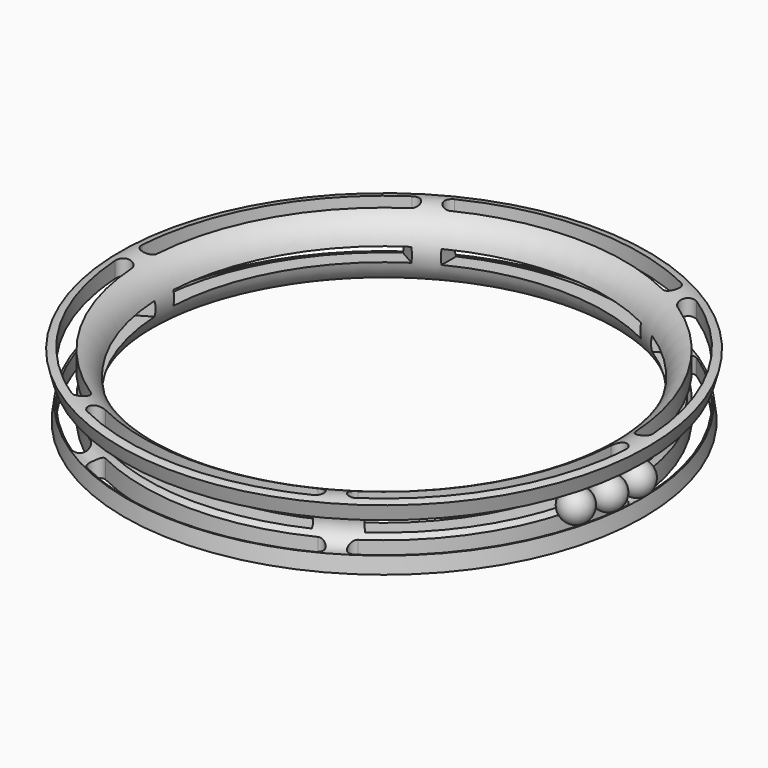
from build123d import *

# Parameters (mm, degrees)
F4_DEPTH      = 13.3012778422
F4_DEPTH_BACK = 13.3012778422
F5_COUNT      = 6
F8_W          = 80.1995322108
F8_H          = 5.6617874652
F9_DEPTH      = 106.1225348679
F10_COUNT     = 6
F11_COUNT     = 3
F11_ANGLE     = 15


with BuildPart() as f1:
    # F0 (on Front) → F1 (revolve)
    with BuildSketch(Plane.XZ):
        with BuildLine():
            ThreePointArc((103.5910444848, -6.6589866011), (94.6649851818, 0.4603587354), (104.4537665909, 6.3373793431))
            Line((104.4537665909, 6.3373793431), (106.1215347679, 12.5081218159))
            ThreePointArc((106.1215347679, 12.5081218159), (88.329877015, 0.8951111562), (104.4007951263, -13.0020357898))
            Line((104.4007951263, -13.0020357898), (103.5910444848, -6.6589866011))
        make_face()
    revolve(axis=Axis((0, 0, 4.3256185018), (0, 0, -1)))

    # F3 (on Top) → F4 (cut, two sides)
    with BuildSketch(Plane.XY) as f4_sk:
        with BuildLine():
            ThreePointArc((42.6894900493, 86.6577107587), (46.9407193485, 88.1028057197), (45.4956243874, 92.3540350188))
            ThreePointArc((45.4956243874, 92.3540350188), (0, 102.9520258307), (-45.4956243874, 92.3540350188))
            ThreePointArc((-45.4956243874, 92.3540350188), (-46.9407193485, 88.1028057197), (-42.6894900493, 86.6577107587))
            ThreePointArc((-42.6894900493, 86.6577107587), (0, 96.6020258307), (42.6894900493, 86.6577107587))
        make_face()
    f4 = extrude(amount=-F4_DEPTH, mode=Mode.SUBTRACT) + extrude(f4_sk.sketch, amount=F4_DEPTH_BACK, mode=Mode.SUBTRACT)

    # F5: F4 ×6 about axis
    f5_axis = Axis((0, 0, -2.4245455861), (0, 0, -1))
    for i in range(1, F5_COUNT):
        add(f4.rotate(f5_axis, i * 360 / F5_COUNT), mode=Mode.SUBTRACT)

    # F8 (on Front) → F9 (cut, through all)
    with BuildSketch(Plane.XZ):
        Rectangle(F8_W, F8_H)
    f9 = extrude(amount=-F9_DEPTH, mode=Mode.SUBTRACT)

    # F10: F9 ×6 about axis
    f10_axis = Axis((0, 0, -2.4245455861), (0, 0, 1))
    for i in range(1, F10_COUNT):
        add(f9.rotate(f10_axis, i * 360 / F10_COUNT), mode=Mode.SUBTRACT)


with BuildPart() as f7:
    # F6 (on Front) → F7 (revolve)
    with BuildSketch(Plane.XZ):
        with BuildLine():
            Line((101.6, 0), (101.6, -6.35))
            ThreePointArc((101.6, -6.35), (107.95, 0), (101.6, 6.35))
            Line((101.6, 6.35), (101.6, 0))
        make_face()
    revolve(axis=Axis((101.6, 0, 1.1829148582), (0, 0, -1)))


with BuildPart() as f11_1:
    # F11: instance of F7
    add(f7.part.rotate(Axis((0, 0, 4.3256185018), (0, 0, -1)), 1 * F11_ANGLE / (F11_COUNT - 1)))


with BuildPart() as f11_2:
    # F11: instance of F7
    add(f7.part.rotate(Axis((0, 0, 4.3256185018), (0, 0, -1)), 2 * F11_ANGLE / (F11_COUNT - 1)))


solid = Compound([f1.part, f7.part, f11_1.part, f11_2.part])
